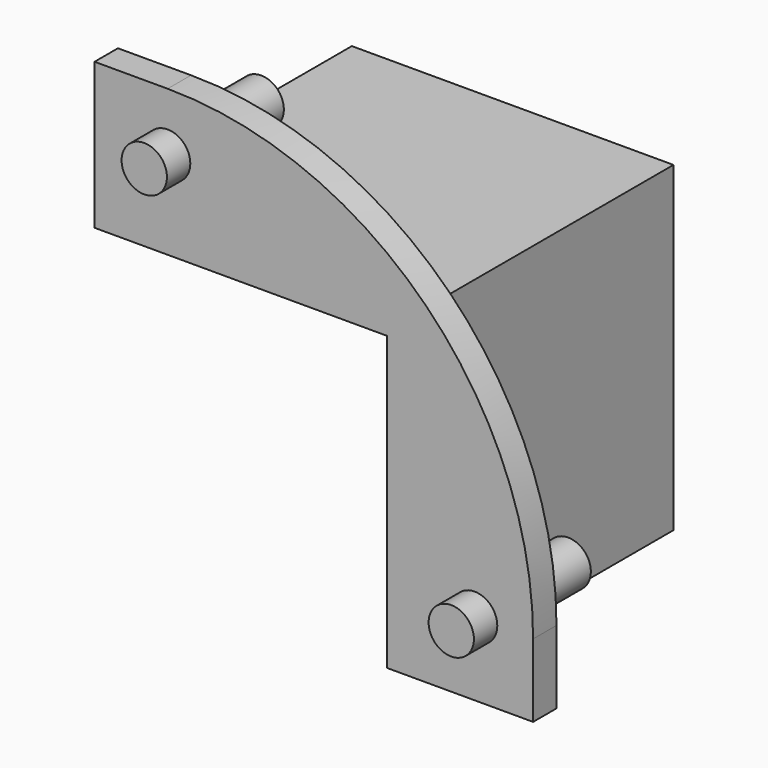
from build123d import *

# Parameters (mm, degrees)
CYLINDER_R             = 1.55
CYLINDER_DEPTH         = 10
CYLINDER_ROLL_ANGLE    = -90
CYLINDER001_R          = 20
CYLINDER001_DEPTH      = 25
CYLINDER001_ROLL_ANGLE = -90
BOX001_W               = 20
BOX001_H               = 20.5
BOX001_DEPTH           = 20
BOX_W                  = 22
BOX_H                  = 22
BOX_DEPTH              = 22
BOX002_W               = 30
BOX002_H               = 2
BOX002_DEPTH           = 30
FILLET_R               = 25
CYLINDER002_R          = 1.55
CYLINDER002_DEPTH      = 10
CYLINDER002_ROLL_ANGLE = -90


with BuildPart() as cilindro:
    # Cylinder → Cylinder (new body)
    with BuildSketch(Plane.XY):
        Circle(CYLINDER_R)
    extrude(amount=CYLINDER_DEPTH)


with BuildPart() as cilindro_1:
    # Cylinder roll: moved
    add(cilindro.part.rotate(Axis((0, 0, 0), (1, 0, 0)), CYLINDER_ROLL_ANGLE))


with BuildPart() as cilindro_2:
    # Cylinder placement: moved
    add(cilindro_1.part.moved(Location((26, -2, 5))))


with BuildPart() as cilindro001:
    # Cylinder001 → Cylinder001 (new body)
    with BuildSketch(Plane.XY):
        Circle(CYLINDER001_R)
    extrude(amount=CYLINDER001_DEPTH)


with BuildPart() as cilindro001_1:
    # Cylinder001 roll: moved
    add(cilindro001.part.rotate(Axis((0, 0, 0), (1, 0, 0)), CYLINDER001_ROLL_ANGLE))


with BuildPart() as cilindro001_2:
    # Cylinder001 placement: moved
    add(cilindro001_1.part)


with BuildPart() as cubo001:
    # Box001 → Box001 (new body)
    with BuildSketch(Plane.XY):
        with Locations((10, 10.25)):
            Rectangle(BOX001_W, BOX001_H)
    extrude(amount=BOX001_DEPTH)


with BuildPart() as cubo:
    # Box → Box (new body)
    with BuildSketch(Plane.XY):
        with Locations((11, 11)):
            Rectangle(BOX_W, BOX_H)
    extrude(amount=BOX_DEPTH)


with BuildPart() as cut001:
    # Box002 → Box002 (new body)
    with BuildSketch(Plane.XY):
        with Locations((15, 1)):
            Rectangle(BOX002_W, BOX002_H)
    extrude(amount=BOX002_DEPTH)

    # Fusion: union Cubo
    add(cubo.part)

    # Cut: cut Cubo001
    add(cubo001.part, mode=Mode.SUBTRACT)

    # Fillet
    fillet_edges = [cut001.edges().sort_by_distance(p)[0] for p in [
        (30, 1, 30),
    ]]
    fillet(fillet_edges, radius=FILLET_R)

    # Cut001: cut Cilindro001
    add(cilindro001_2.part, mode=Mode.SUBTRACT)


with BuildPart() as cilindro002:
    # Cylinder002 → Cylinder002 (new body)
    with BuildSketch(Plane.XY):
        Circle(CYLINDER002_R)
    extrude(amount=CYLINDER002_DEPTH)


with BuildPart() as cilindro002_1:
    # Cylinder002 roll: moved
    add(cilindro002.part.rotate(Axis((0, 0, 0), (1, 0, 0)), CYLINDER002_ROLL_ANGLE))


with BuildPart() as cilindro002_2:
    # Cylinder002 placement: moved
    add(cilindro002_1.part.moved(Location((5, -2, 26))))


solid = Compound([cilindro_2.part, cut001.part, cilindro002_2.part])
